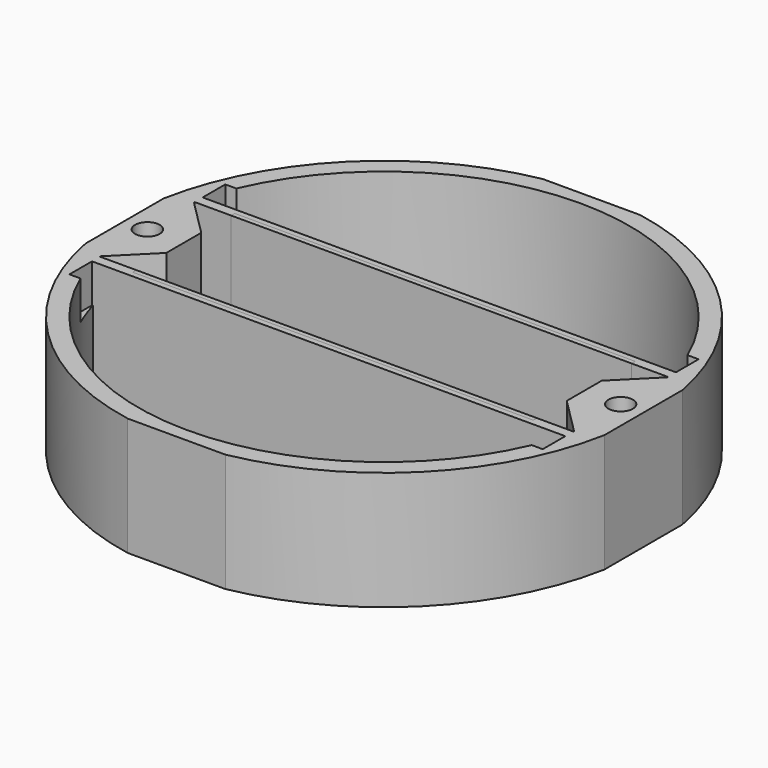
from build123d import *

# Parameters (mm, degrees)
BOX007_W                   = 54
BOX007_H                   = 1
BOX007_DEPTH               = 13
BOX008_W                   = 54
BOX008_H                   = 1
BOX008_DEPTH               = 13
BOX011_W                   = 5
BOX011_H                   = 5
BOX011_DEPTH               = 13
CHAMFER003_SIZE            = 4.9
CHAMFER003_PLACEMENT_ANGLE = -90
BOX010_W                   = 5
BOX010_H                   = 5
BOX010_DEPTH               = 13
CHAMFER002_SIZE            = 4.9
CHAMFER002_PLACEMENT_ANGLE = 180
BOX009_W                   = 5
BOX009_H                   = 5
BOX009_DEPTH               = 13
CHAMFER001_SIZE            = 4.9
CHAMFER001_PLACEMENT_ANGLE = 90
BOX006_W                   = 5
BOX006_H                   = 5
BOX006_DEPTH               = 13
CHAMFER_SIZE               = 4.9
BOX003_W                   = 44
BOX003_H                   = 14
BOX003_DEPTH               = 13
BOX002_W                   = 52
BOX002_H                   = 3.1
BOX002_DEPTH               = 4.3
BOX001_W                   = 52
BOX001_H                   = 3.1
BOX001_DEPTH               = 4.3
BOX005_W                   = 60
BOX005_H                   = 60
BOX005_DEPTH               = 13
CYLINDER004_R              = 27
CYLINDER004_DEPTH          = 13
BOX004_W                   = 60
BOX004_H                   = 60
BOX004_DEPTH               = 13
CYLINDER003_R              = 27
CYLINDER003_DEPTH          = 13
CYLINDER002_R              = 1.35
CYLINDER002_DEPTH          = 13
CYLINDER001_R              = 1.35
CYLINDER001_DEPTH          = 13
BOX_W                      = 57
BOX_H                      = 57
BOX_DEPTH                  = 13
CYLINDER_R                 = 29
CYLINDER_DEPTH             = 13


with BuildPart() as cube007:
    # Box007 → Box007 (new body)
    with BuildSketch(Plane(origin=(-27, 6.5, 0), x_dir=(1, 0, 0), z_dir=(0, 0, 1))):
        with Locations((27, 0.5)):
            Rectangle(BOX007_W, BOX007_H)
    extrude(amount=BOX007_DEPTH)


with BuildPart() as cube008:
    # Box008 → Box008 (new body)
    with BuildSketch(Plane(origin=(-27, -7.5, 0), x_dir=(1, 0, 0), z_dir=(0, 0, 1))):
        with Locations((27, 0.5)):
            Rectangle(BOX008_W, BOX008_H)
    extrude(amount=BOX008_DEPTH)


with BuildPart() as chamfer003:
    # Box011 → Box011 (new body)
    with BuildSketch(Plane.XY):
        with Locations((2.5, 2.5)):
            Rectangle(BOX011_W, BOX011_H)
    extrude(amount=BOX011_DEPTH)

    # Chamfer003
    chamfer003_edges = [chamfer003.edges().sort_by_distance(p)[0] for p in [
        (0, 0, 6.5),
    ]]
    chamfer(chamfer003_edges, length=CHAMFER003_SIZE)


with BuildPart() as chamfer003_1:
    # Chamfer003 placement: moved
    add(chamfer003.part.moved(Location((-26, -1.5, 0))).rotate(Axis((-26, -1.5, 0), (0, 0, 1)), CHAMFER003_PLACEMENT_ANGLE))


with BuildPart() as chamfer002:
    # Box010 → Box010 (new body)
    with BuildSketch(Plane.XY):
        with Locations((2.5, 2.5)):
            Rectangle(BOX010_W, BOX010_H)
    extrude(amount=BOX010_DEPTH)

    # Chamfer002
    chamfer002_edges = [chamfer002.edges().sort_by_distance(p)[0] for p in [
        (0, 0, 6.5),
    ]]
    chamfer(chamfer002_edges, length=CHAMFER002_SIZE)


with BuildPart() as chamfer002_1:
    # Chamfer002 placement: moved
    add(chamfer002.part.moved(Location((26, -1.5, 0))).rotate(Axis((26, -1.5, 0), (0, 0, 1)), CHAMFER002_PLACEMENT_ANGLE))


with BuildPart() as chamfer001:
    # Box009 → Box009 (new body)
    with BuildSketch(Plane.XY):
        with Locations((2.5, 2.5)):
            Rectangle(BOX009_W, BOX009_H)
    extrude(amount=BOX009_DEPTH)

    # Chamfer001
    chamfer001_edges = [chamfer001.edges().sort_by_distance(p)[0] for p in [
        (0, 0, 6.5),
    ]]
    chamfer(chamfer001_edges, length=CHAMFER001_SIZE)


with BuildPart() as chamfer001_1:
    # Chamfer001 placement: moved
    add(chamfer001.part.moved(Location((26, 1.5, 0))).rotate(Axis((26, 1.5, 0), (0, 0, 1)), CHAMFER001_PLACEMENT_ANGLE))


with BuildPart() as chamfer_body:
    # Box006 → Box006 (new body)
    with BuildSketch(Plane.XY):
        with Locations((2.5, 2.5)):
            Rectangle(BOX006_W, BOX006_H)
    extrude(amount=BOX006_DEPTH)

    # Chamfer
    chamfer_edges = [chamfer_body.edges().sort_by_distance(p)[0] for p in [
        (0, 0, 6.5),
    ]]
    chamfer(chamfer_edges, length=CHAMFER_SIZE)


with BuildPart() as chamfer_body_1:
    # Chamfer placement: moved
    add(chamfer_body.part.moved(Location((-26, 1.5, 0))))


with BuildPart() as cube003:
    # Box003 → Box003 (new body)
    with BuildSketch(Plane(origin=(-22, -7, 0), x_dir=(1, 0, 0), z_dir=(0, 0, 1))):
        with Locations((22, 7)):
            Rectangle(BOX003_W, BOX003_H)
    extrude(amount=BOX003_DEPTH)


with BuildPart() as cube002:
    # Box002 → Box002 (new body)
    with BuildSketch(Plane(origin=(-26, -10.7, 8.75), x_dir=(1, 0, 0), z_dir=(0, 0, 1))):
        with Locations((26, 1.55)):
            Rectangle(BOX002_W, BOX002_H)
    extrude(amount=BOX002_DEPTH)


with BuildPart() as cube001:
    # Box001 → Box001 (new body)
    with BuildSketch(Plane(origin=(-26, 7.6, 8.75), x_dir=(1, 0, 0), z_dir=(0, 0, 1))):
        with Locations((26, 1.55)):
            Rectangle(BOX001_W, BOX001_H)
    extrude(amount=BOX001_DEPTH)


with BuildPart() as cube005:
    # Box005 → Box005 (new body)
    with BuildSketch(Plane(origin=(-30, -52.4, 0), x_dir=(1, 0, 0), z_dir=(0, 0, 1))):
        with Locations((30, 30)):
            Rectangle(BOX005_W, BOX005_H)
    extrude(amount=BOX005_DEPTH)


with BuildPart() as cut003:
    # Cylinder004 → Cylinder004 (new body)
    with BuildSketch(Plane.XY):
        Circle(CYLINDER004_R)
    extrude(amount=CYLINDER004_DEPTH)

    # Cut003: cut Cube005
    add(cube005.part, mode=Mode.SUBTRACT)


with BuildPart() as cube004:
    # Box004 → Box004 (new body)
    with BuildSketch(Plane(origin=(-30, -7.6, 0), x_dir=(1, 0, 0), z_dir=(0, 0, 1))):
        with Locations((30, 30)):
            Rectangle(BOX004_W, BOX004_H)
    extrude(amount=BOX004_DEPTH)


with BuildPart() as cut002:
    # Cylinder003 → Cylinder003 (new body)
    with BuildSketch(Plane.XY):
        Circle(CYLINDER003_R)
    extrude(amount=CYLINDER003_DEPTH)

    # Cut002: cut Cube004
    add(cube004.part, mode=Mode.SUBTRACT)


with BuildPart() as cylinder002:
    # Cylinder002 → Cylinder002 (new body)
    with BuildSketch(Plane(origin=(-26, 0, 0), x_dir=(1, 0, 0), z_dir=(0, 0, 1))):
        Circle(CYLINDER002_R)
    extrude(amount=CYLINDER002_DEPTH)


with BuildPart() as cylinder001:
    # Cylinder001 → Cylinder001 (new body)
    with BuildSketch(Plane(origin=(26, 0, 0), x_dir=(1, 0, 0), z_dir=(0, 0, 1))):
        Circle(CYLINDER001_R)
    extrude(amount=CYLINDER001_DEPTH)


with BuildPart() as cube:
    # Box → Box (new body)
    with BuildSketch(Plane(origin=(-28.5, -28.5, 0), x_dir=(1, 0, 0), z_dir=(0, 0, 1))):
        with Locations((28.5, 28.5)):
            Rectangle(BOX_W, BOX_H)
    extrude(amount=BOX_DEPTH)


with BuildPart() as cut012:
    # Cylinder → Cylinder (new body)
    with BuildSketch(Plane.XY):
        Circle(CYLINDER_R)
    extrude(amount=CYLINDER_DEPTH)

    # Common: intersect Cube
    add(cube.part, mode=Mode.INTERSECT)

    # Cut: cut Cylinder001
    add(cylinder001.part, mode=Mode.SUBTRACT)

    # Cut001: cut Cylinder002
    add(cylinder002.part, mode=Mode.SUBTRACT)

    # Cut004: cut Cut002
    add(cut002.part, mode=Mode.SUBTRACT)

    # Cut005: cut Cut003
    add(cut003.part, mode=Mode.SUBTRACT)

    # Cut006: cut Cube001
    add(cube001.part, mode=Mode.SUBTRACT)

    # Cut007: cut Cube002
    add(cube002.part, mode=Mode.SUBTRACT)

    # Cut008: cut Cube003
    add(cube003.part, mode=Mode.SUBTRACT)

    # Cut009: cut Chamfer body
    add(chamfer_body_1.part, mode=Mode.SUBTRACT)

    # Cut010: cut Chamfer001
    add(chamfer001_1.part, mode=Mode.SUBTRACT)

    # Cut011: cut Chamfer002
    add(chamfer002_1.part, mode=Mode.SUBTRACT)

    # Cut012: cut Chamfer003
    add(chamfer003_1.part, mode=Mode.SUBTRACT)


solid = Compound([cube007.part, cube008.part, cut012.part])
